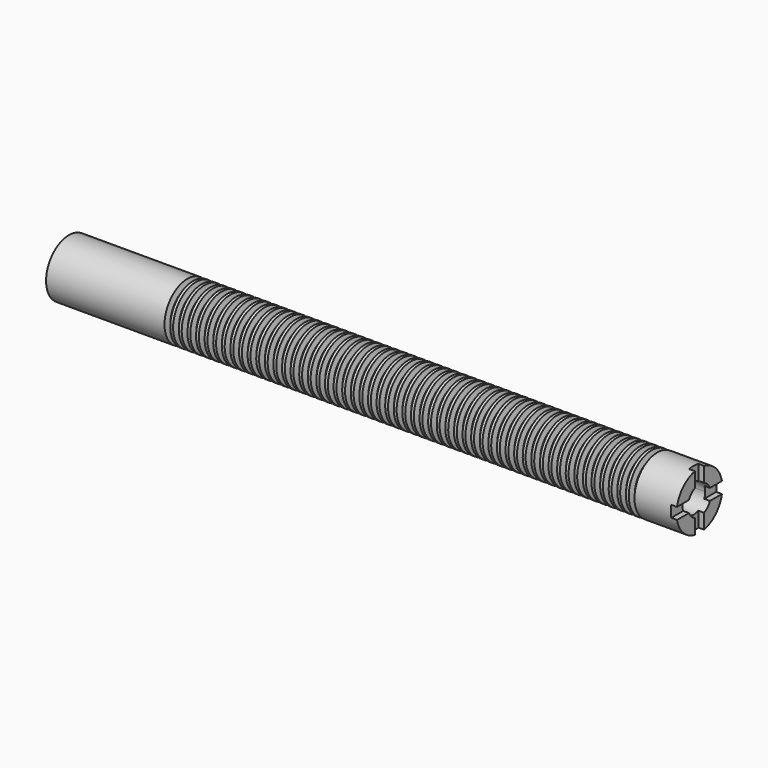
from build123d import *

# Parameters (mm, degrees)
F0_W     = 279.4
F0_H     = 12.7
F3_DEPTH = 2.54
F5_DEPTH = 25.4


with BuildPart() as f1:
    # F0 (on Front) → F1 (revolve)
    with BuildSketch(Plane.XZ):
        with Locations((139.7, 6.35)):
            Rectangle(F0_W, F0_H)
    revolve(axis=Axis((139.7, 0, 0), (-1, 0, 0)))

    # F2 (on face) → F3 (cut)
    with BuildSketch(Plane.YZ.offset(279.4)):
        with BuildLine():
            Line((-12.7, 0), (-12.7, -2.54))
            Line((-12.7, -2.54), (-12.4434078933, -2.54))
            ThreePointArc((-12.4434078933, -2.54), (-12.6356891432, -1.2764638175), (-12.7, 0))
        make_face()
        with BuildLine():
            Line((-12.7, 2.54), (-12.7, 0))
            ThreePointArc((-12.7, 0), (-12.6356891432, 1.2764638175), (-12.4434078933, 2.54))
            Line((-12.4434078933, 2.54), (-12.7, 2.54))
        make_face()
        with BuildLine():
            Line((-2.54, 12.7), (-2.54, 12.4434078933))
            ThreePointArc((-2.54, 12.4434078933), (-1.2764638175, 12.6356891432), (0, 12.7))
            Line((0, 12.7), (-2.54, 12.7))
        make_face()
        with BuildLine():
            Line((2.54, 12.7), (0, 12.7))
            ThreePointArc((0, 12.7), (1.2764638175, 12.6356891432), (2.54, 12.4434078933))
            Line((2.54, 12.4434078933), (2.54, 12.7))
        make_face()
        with BuildLine():
            ThreePointArc((12.4434078933, 2.54), (12.6356891432, 1.2764638175), (12.7, 0))
            Line((12.7, 0), (12.7, 2.54))
            Line((12.7, 2.54), (12.4434078933, 2.54))
        make_face()
        with BuildLine():
            ThreePointArc((0, -12.7), (-1.2764638175, -12.6356891432), (-2.54, -12.4434078933))
            Line((-2.54, -12.4434078933), (-2.54, -12.7))
            Line((-2.54, -12.7), (0, -12.7))
        make_face()
        with BuildLine():
            ThreePointArc((12.7, 0), (12.6356891432, -1.2764638175), (12.4434078933, -2.54))
            Line((12.4434078933, -2.54), (12.7, -2.54))
            Line((12.7, -2.54), (12.7, 0))
        make_face()
        with BuildLine():
            ThreePointArc((2.54, -12.4434078933), (1.2764638175, -12.6356891432), (0, -12.7))
            Line((0, -12.7), (2.54, -12.7))
            Line((2.54, -12.7), (2.54, -12.4434078933))
        make_face()
        with BuildLine():
            ThreePointArc((-12.7, 0), (-12.6356891432, -1.2764638175), (-12.4434078933, -2.54))
            Line((-12.4434078933, -2.54), (-2.54, -2.54))
            Line((-2.54, -2.54), (-2.54, -12.4434078933))
            ThreePointArc((-2.54, -12.4434078933), (-1.2764638175, -12.6356891432), (0, -12.7))
            ThreePointArc((0, -12.7), (1.2764638175, -12.6356891432), (2.54, -12.4434078933))
            Line((2.54, -12.4434078933), (2.54, -2.54))
            Line((2.54, -2.54), (12.4434078933, -2.54))
            ThreePointArc((12.4434078933, -2.54), (12.6356891432, -1.2764638175), (12.7, 0))
            ThreePointArc((12.7, 0), (12.6356891432, 1.2764638175), (12.4434078933, 2.54))
            Line((12.4434078933, 2.54), (2.54, 2.54))
            Line((2.54, 2.54), (2.54, 12.4434078933))
            ThreePointArc((2.54, 12.4434078933), (1.2764638175, 12.6356891432), (0, 12.7))
            ThreePointArc((0, 12.7), (-1.2764638175, 12.6356891432), (-2.54, 12.4434078933))
            Line((-2.54, 12.4434078933), (-2.54, 2.54))
            Line((-2.54, 2.54), (-12.4434078933, 2.54))
            ThreePointArc((-12.4434078933, 2.54), (-12.6356891432, 1.2764638175), (-12.7, 0))
        make_face()
    extrude(amount=-F3_DEPTH, mode=Mode.SUBTRACT)

    # F4 (on face) → F5 (cut)
    with BuildSketch(Plane.YZ.offset(279.4)):
        with BuildLine():
            Line((-2.54, 2.54), (-2.54, 5.8198711326))
            ThreePointArc((-2.54, 5.8198711326), (-4.4901280605, 4.4901280605), (-5.8198711326, 2.54))
            Line((-5.8198711326, 2.54), (-2.54, 2.54))
        make_face()
        with BuildLine():
            ThreePointArc((6.35, 0), (3.4780382402, 5.3127911685), (-2.54, 5.8198711326))
            Line((-2.54, 5.8198711326), (-2.54, 2.54))
            Line((-2.54, 2.54), (-5.8198711326, 2.54))
            ThreePointArc((-5.8198711326, 2.54), (-1.2973662374, -6.2160550871), (6.35, 0))
        make_face()
    extrude(amount=-F5_DEPTH, mode=Mode.SUBTRACT)

    # F6 (on Front) → F7 (revolve, cut)
    with BuildSketch(Plane.XZ):
        Polygon((55.0244769112, 12.7), (52.4844769112, 12.7), (53.1201249113, 10.16), (54.3888289111, 10.16), align=None)
        Polygon((56.9301249113, 10.16), (58.1988289111, 10.16), (58.8344769112, 12.7), (56.2944769112, 12.7), align=None)
        Polygon((60.7401249113, 10.16), (62.0088289111, 10.16), (62.6444769112, 12.7), (60.1044769112, 12.7), align=None)
        Polygon((64.5501249113, 10.16), (65.8188289111, 10.16), (66.4544769112, 12.7), (63.9144769112, 12.7), align=None)
        Polygon((68.3601249113, 10.16), (69.6288289111, 10.16), (70.2644769112, 12.7), (67.7244769112, 12.7), align=None)
        Polygon((72.1701249113, 10.16), (73.4388289111, 10.16), (74.0744769112, 12.7), (71.5344769112, 12.7), align=None)
        Polygon((75.9801249113, 10.16), (77.2488289111, 10.16), (77.8844769112, 12.7), (75.3444769112, 12.7), align=None)
        Polygon((79.7901249113, 10.16), (81.0588289111, 10.16), (81.6944769112, 12.7), (79.1544769112, 12.7), align=None)
        Polygon((83.6001249113, 10.16), (84.8688289111, 10.16), (85.5044769112, 12.7), (82.9644769112, 12.7), align=None)
        Polygon((87.4101249113, 10.16), (88.6788289111, 10.16), (89.3144769112, 12.7), (86.7744769112, 12.7), align=None)
        Polygon((91.2201249113, 10.16), (92.4888289111, 10.16), (93.1244769112, 12.7), (90.5844769112, 12.7), align=None)
        Polygon((95.0301249113, 10.16), (96.2988289111, 10.16), (96.9344769112, 12.7), (94.3944769112, 12.7), align=None)
        Polygon((98.8401249113, 10.16), (100.1088289111, 10.16), (100.7444769112, 12.7), (98.2044769112, 12.7), align=None)
        Polygon((102.6501249113, 10.16), (103.9188289111, 10.16), (104.5544769112, 12.7), (102.0144769112, 12.7), align=None)
        Polygon((106.4601249113, 10.16), (107.7288289111, 10.16), (108.3644769112, 12.7), (105.8244769112, 12.7), align=None)
        Polygon((110.2701249113, 10.16), (111.5388289111, 10.16), (112.1744769112, 12.7), (109.6344769112, 12.7), align=None)
        Polygon((114.0801249113, 10.16), (115.3488289111, 10.16), (115.9844769112, 12.7), (113.4444769112, 12.7), align=None)
        Polygon((117.8901249113, 10.16), (119.1588289111, 10.16), (119.7944769112, 12.7), (117.2544769112, 12.7), align=None)
        Polygon((121.7001249113, 10.16), (122.9688289111, 10.16), (123.6044769112, 12.7), (121.0644769112, 12.7), align=None)
        Polygon((125.5101249113, 10.16), (126.7788289111, 10.16), (127.4144769112, 12.7), (124.8744769112, 12.7), align=None)
        Polygon((129.3201249113, 10.16), (130.5888289111, 10.16), (131.2244769112, 12.7), (128.6844769112, 12.7), align=None)
        Polygon((133.1301249113, 10.16), (134.3988289111, 10.16), (135.0344769112, 12.7), (132.4944769112, 12.7), align=None)
        Polygon((136.9401249113, 10.16), (138.2088289111, 10.16), (138.8444769112, 12.7), (136.3044769112, 12.7), align=None)
        Polygon((140.7501249113, 10.16), (142.0188289111, 10.16), (142.6544769112, 12.7), (140.1144769112, 12.7), align=None)
        Polygon((144.5601249113, 10.16), (145.8288289111, 10.16), (146.4644769112, 12.7), (143.9244769112, 12.7), align=None)
        Polygon((148.3701249113, 10.16), (149.6388289111, 10.16), (150.2744769112, 12.7), (147.7344769112, 12.7), align=None)
        Polygon((152.1801249113, 10.16), (153.4488289111, 10.16), (154.0844769112, 12.7), (151.5444769112, 12.7), align=None)
        Polygon((155.9901249113, 10.16), (157.2588289111, 10.16), (157.8944769112, 12.7), (155.3544769112, 12.7), align=None)
        Polygon((159.8001249113, 10.16), (161.0688289111, 10.16), (161.7044769112, 12.7), (159.1644769112, 12.7), align=None)
        Polygon((163.6101249113, 10.16), (164.8788289111, 10.16), (165.5144769112, 12.7), (162.9744769112, 12.7), align=None)
        Polygon((167.4201249113, 10.16), (168.6888289111, 10.16), (169.3244769112, 12.7), (166.7844769112, 12.7), align=None)
        Polygon((171.2301249113, 10.16), (172.4988289111, 10.16), (173.1344769112, 12.7), (170.5944769112, 12.7), align=None)
        Polygon((175.0401249113, 10.16), (176.3088289111, 10.16), (176.9444769112, 12.7), (174.4044769112, 12.7), align=None)
        Polygon((178.8501249113, 10.16), (180.1188289111, 10.16), (180.7544769112, 12.7), (178.2144769112, 12.7), align=None)
        Polygon((182.6601249113, 10.16), (183.9288289111, 10.16), (184.5644769112, 12.7), (182.0244769112, 12.7), align=None)
        Polygon((186.4701249113, 10.16), (187.7388289111, 10.16), (188.3744769112, 12.7), (185.8344769112, 12.7), align=None)
        Polygon((190.2801249113, 10.16), (191.5488289111, 10.16), (192.1844769112, 12.7), (189.6444769112, 12.7), align=None)
        Polygon((194.0901249113, 10.16), (195.3588289111, 10.16), (195.9944769112, 12.7), (193.4544769112, 12.7), align=None)
        Polygon((197.9001249113, 10.16), (199.1688289111, 10.16), (199.8044769112, 12.7), (197.2644769112, 12.7), align=None)
        Polygon((201.7101249113, 10.16), (202.9788289111, 10.16), (203.6144769112, 12.7), (201.0744769112, 12.7), align=None)
        Polygon((205.5201249113, 10.16), (206.7888289111, 10.16), (207.4244769112, 12.7), (204.8844769112, 12.7), align=None)
        Polygon((209.3301249113, 10.16), (210.5988289111, 10.16), (211.2344769112, 12.7), (208.6944769112, 12.7), align=None)
        Polygon((213.1401249113, 10.16), (214.4088289111, 10.16), (215.0444769112, 12.7), (212.5044769112, 12.7), align=None)
        Polygon((216.9501249113, 10.16), (218.2188289111, 10.16), (218.8544769112, 12.7), (216.3144769112, 12.7), align=None)
        Polygon((220.7601249113, 10.16), (222.0288289111, 10.16), (222.6644769112, 12.7), (220.1244769112, 12.7), align=None)
        Polygon((224.5701249113, 10.16), (225.8388289111, 10.16), (226.4744769112, 12.7), (223.9344769112, 12.7), align=None)
        Polygon((228.3801249113, 10.16), (229.6488289111, 10.16), (230.2844769112, 12.7), (227.7444769112, 12.7), align=None)
        Polygon((232.1901249113, 10.16), (233.4588289111, 10.16), (234.0944769112, 12.7), (231.5544769112, 12.7), align=None)
        Polygon((236.0001249113, 10.16), (237.2688289111, 10.16), (237.9044769112, 12.7), (235.3644769112, 12.7), align=None)
        Polygon((239.8101249113, 10.16), (241.0788289111, 10.16), (241.7144769112, 12.7), (239.1744769112, 12.7), align=None)
        Polygon((243.6201249113, 10.16), (244.8888289111, 10.16), (245.5244769112, 12.7), (242.9844769112, 12.7), align=None)
        Polygon((247.4301249113, 10.16), (248.6988289111, 10.16), (249.3344769112, 12.7), (246.7944769112, 12.7), align=None)
        Polygon((251.2401249113, 10.16), (252.5088289111, 10.16), (253.1444769112, 12.7), (250.6044769112, 12.7), align=None)
        Polygon((255.0501249113, 10.16), (256.3188289111, 10.16), (256.9544769112, 12.7), (254.4144769112, 12.7), align=None)
        Polygon((258.8601249113, 10.16), (260.1288289111, 10.16), (260.7644769112, 12.7), (258.2244769112, 12.7), align=None)
    revolve(axis=Axis((15.9893874079, 0, 0), (1, 0, 0)), mode=Mode.SUBTRACT)


solid = f1.part
